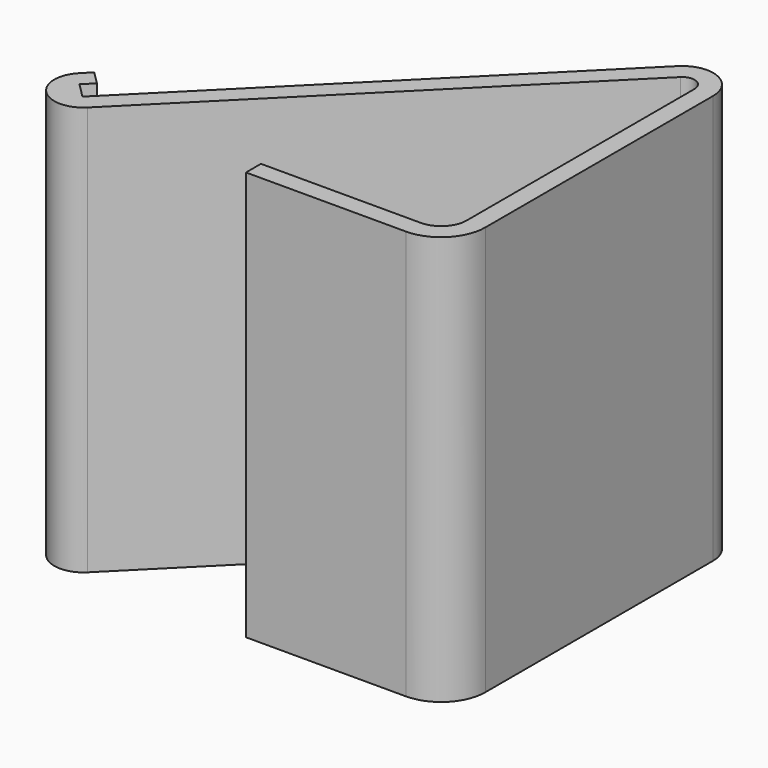
from build123d import *

# Parameters (mm, degrees)
PAD002_DEPTH = 175


with BuildPart() as part:
    # Sketch → Pad002 (new body)
    with BuildSketch(Plane.XY):
        with BuildLine():
            Line((8.468198, 3.655669), (149.280288, 144.467759))
            ThreePointArc((158.352585, 140.709891), (155.0719, 145.619782), (149.280288, 144.467759))
            Line((158.352585, 140.709891), (158.352585, 18.903732))
            ThreePointArc((147.448852, 8), (155.158955, 11.193629), (158.352585, 18.903732))
            Line((147.448852, 8), (79.105045, 8))
            Line((79.105045, 8), (79.105045, 0))
            Line((79.105045, 0), (147.448852, 0))
            ThreePointArc((147.448852, 0), (160.81581, 5.536775), (166.352585, 18.903732))
            Line((166.352585, 18.903732), (166.352585, 140.709891))
            ThreePointArc((166.352585, 140.709891), (158.133368, 153.010819), (143.623434, 150.124613))
            Line((143.623434, 150.124613), (2.202078, 8.703257))
            Line((-4.161883, 15.067218), (2.202078, 8.703257))
            Line((-4.161883, 15.067218), (-0.017083, 19.212018))
            Line((-0.017083, 19.212018), (-5.673937, 24.868873))
            Line((-5.673937, 24.868873), (-9.209471, 21.333339))
            ThreePointArc((-9.209471, 21.333339), (-9.209471, 3.655669), (8.468198, 3.655669))
        make_face()
    extrude(amount=PAD002_DEPTH)


solid = part.part
